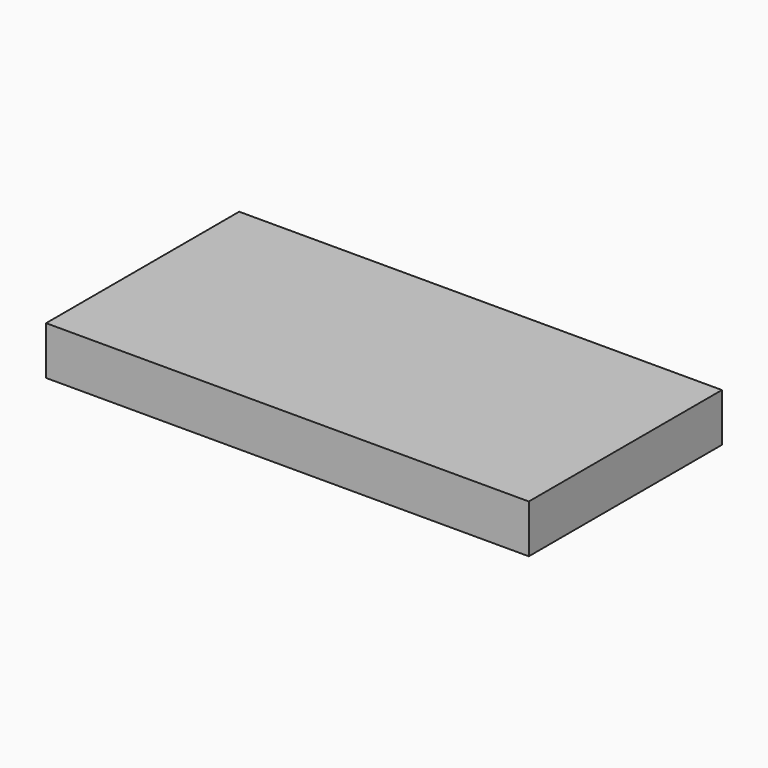
from build123d import *

# Parameters (mm, degrees)
F0_W     = 50.8
F0_H     = 25.4
F1_DEPTH = 5.08
F2_R     = 3.175
F2_R_2   = 3.1623
F2_R_3   = 3.1496
F2_R_4   = 3.1369
F2_R_5   = 3.1242
F3_DEPTH = 1.6002


with BuildPart() as f1:
    # F0 (on Top) → F1 (new body)
    with BuildSketch(Plane.XY):
        Rectangle(F0_W, F0_H)
    extrude(amount=F1_DEPTH)

    # F2 (on face) → F3 (cut)
    with BuildSketch(Plane(origin=(0, 0, 0), x_dir=(1, 0, 0), z_dir=(0, 0, -1))):
        with Locations((-19.073904, 0)):
            Circle(F2_R)
        with Locations((-10.289737, 0)):
            Circle(F2_R_2)
        with Locations((-1.183511, 0)):
            Circle(F2_R_3)
        with Locations((8.620071, 0)):
            Circle(F2_R_4)
        with Locations((18.153338, 0)):
            Circle(F2_R_5)
    extrude(amount=-F3_DEPTH, mode=Mode.SUBTRACT)


solid = f1.part
